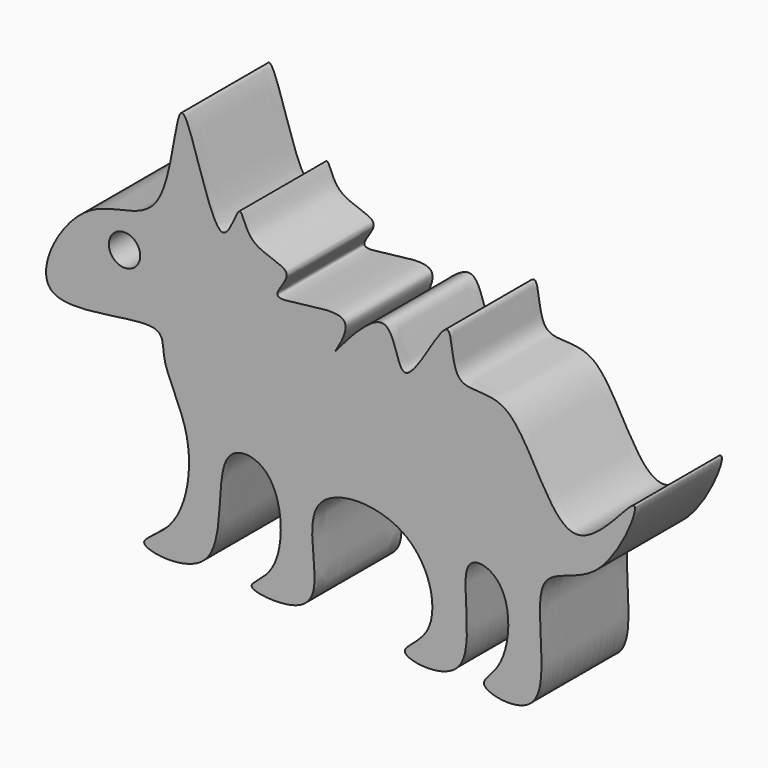
from build123d import *

# Parameters (mm, degrees)
F0_R     = 3.6036142004
F1_DEPTH = 25


with BuildPart() as f1:
    # F0 (on Front) → F1 (new body)
    with BuildSketch(Plane.XZ):
        with BuildLine():
            add(Edge.make_bspline(
                [(-56.911341846, 26.2500010431), (-53.1410700492, 32.2575218469), (-52.7805269841, 62.4514780325), (-42.9289634571, 14.7107361346), (-37.7551774979, 34.2929809242), (-36.6482780318, 22.889673251), (-23.3653165988, 22.6920171244), (-34.955037549, 12.147442831), (-7.6242864835, 21.0174501412), (-21.1440129609, 1.8848786255), (-2.4933299251, 26.9130434032), (-1.6702287058, 0.3720463621), (11.5955768506, 30.3060810963), (9.9181357738, 8.2222275009), (26.4307819881, 16.1907010198), (36.1761357479, -22.7525255117), (58.2006922389, 10.5628526847), (45.6342062354, -20.9440176553), (26.111700603, -17.4279630361), (36.568788097, -52.2964316167), (14.2332534117, -48.3004726792), (23.8446578256, -42.8719709619), (25.0395778676, -24.5743920887), (9.8588323272, -20.705922132), (19.5970320489, -50.7382078545), (-5.5277732536, -47.6618288896), (9.0535243002, -41.5756630935), (3.8606533979, -18.5424393118), (-25.9615731932, -18.7474914857), (-18.3447765023, -41.4551285382), (-25.7773495504, -46.9371689519), (-39.0852101591, -45.4986133068), (-27.4070694115, -40.6299868709), (-28.1479456171, -18.4638904642), (-45.7226778116, -17.2900387426), (-38.727197438, -48.1666796153), (-65.5919614218, -45.1382445004), (-51.0628843715, -39.4119821953), (-47.6850646877, -18.9819106284), (-56.5479929682, -6.5551984383), (-54.4763749915, 3.8749122361), (-91.1477854416, -8.4096502544), (-74.3758483471, 24.7113538363), (-60.465208069, 20.5872991427), (-56.911341846, 26.2500010431)],
                knots=[0, 0, 0, 0, 0.0293898164, 0.0606448566, 0.077539095, 0.0931927373, 0.1127731065, 0.1278769595, 0.1533641277, 0.1707619536, 0.1955216405, 0.2158797526, 0.2413040503, 0.2609673016, 0.2828297931, 0.3160092991, 0.3425946449, 0.3701226952, 0.3948692754, 0.4272064772, 0.4488194934, 0.4650251095, 0.4915935395, 0.5089761064, 0.5392853985, 0.5620853626, 0.5803234123, 0.6083726658, 0.6374036069, 0.6645788682, 0.6829689852, 0.7019600733, 0.7191975239, 0.7475288526, 0.7670776412, 0.7984281221, 0.8227197112, 0.8409949053, 0.8699813282, 0.8953322572, 0.9110988664, 0.942896209, 0.9722970965, 1, 1, 1, 1], degree=3))
        make_face()
        with Locations((-64.5258203149, 13.6618986726)):
            Circle(F0_R, mode=Mode.SUBTRACT)
    extrude(amount=F1_DEPTH)


solid = f1.part
